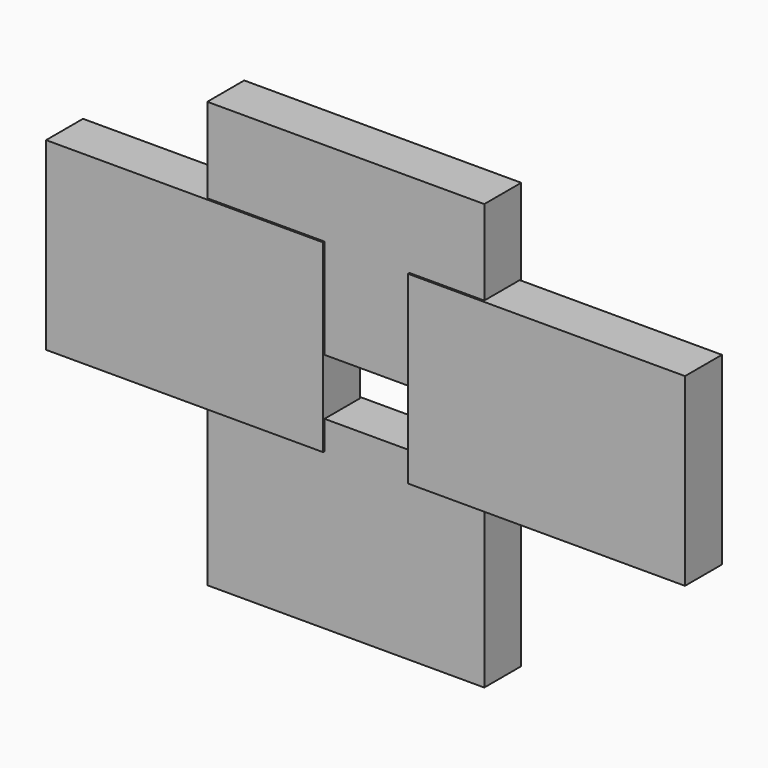
from build123d import *

# Parameters (mm, degrees)
BOX026_W     = 300
BOX026_H     = 50
BOX026_DEPTH = 200
BOX028_W     = 300
BOX028_H     = 50
BOX028_DEPTH = 200
BOX027_W     = 300
BOX027_H     = 50
BOX027_DEPTH = 200
BOX029_W     = 300
BOX029_H     = 50
BOX029_DEPTH = 200


with BuildPart() as cube026:
    # Box026 → Box026 (new body)
    with BuildSketch(Plane(origin=(100, -34, -180), x_dir=(1, 0, 0), z_dir=(0, 0, 1))):
        with Locations((150, 25)):
            Rectangle(BOX026_W, BOX026_H)
    extrude(amount=BOX026_DEPTH)


with BuildPart() as cube028:
    # Box028 → Box028 (new body)
    with BuildSketch(Plane(origin=(-73, -36, -272), x_dir=(1, 0, 0), z_dir=(0, 0, 1))):
        with Locations((150, 25)):
            Rectangle(BOX028_W, BOX028_H)
    extrude(amount=BOX028_DEPTH)


with BuildPart() as cube027:
    # Box027 → Box027 (new body)
    with BuildSketch(Plane(origin=(100, -34, -441), x_dir=(1, 0, 0), z_dir=(0, 0, 1))):
        with Locations((150, 25)):
            Rectangle(BOX027_W, BOX027_H)
    extrude(amount=BOX027_DEPTH)


with BuildPart() as fusion011012:
    # Box029 → Box029 (new body)
    with BuildSketch(Plane(origin=(319, -36, -272), x_dir=(1, 0, 0), z_dir=(0, 0, 1))):
        with Locations((150, 25)):
            Rectangle(BOX029_W, BOX029_H)
    extrude(amount=BOX029_DEPTH)

    # Fusion011012: union Cube026, Cube028, Cube027
    add(cube026.part)
    add(cube028.part)
    add(cube027.part)


solid = fusion011012.part
